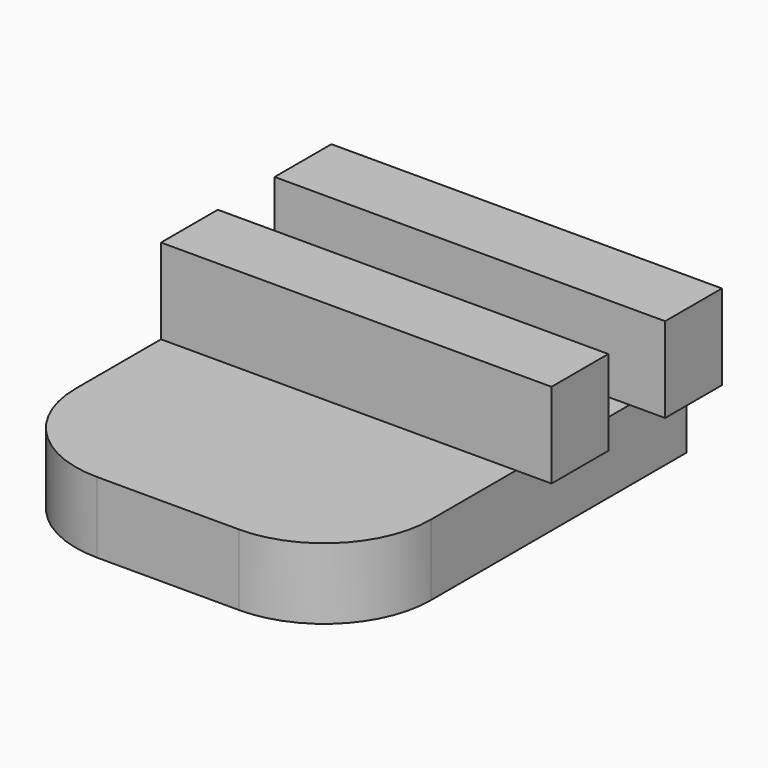
from build123d import *

# Parameters (mm, degrees)
F1_DEPTH = 10
F2_W     = 55
F2_H     = 10
F3_DEPTH = 12
F4_W     = 5
F4_H     = 10
F5_DEPTH = 30.001


with BuildPart() as f1:
    # F0 (on Top) → F1 (new body)
    with BuildSketch(Plane.XY):
        with BuildLine():
            Line((55, 30), (0, 30))
            Line((0, 30), (0, -15))
            ThreePointArc((0, -15), (4.393398, -25.606602), (15, -30))
            Line((15, -30), (35, -30))
            ThreePointArc((35, -30), (45.606602, -25.606602), (50, -15))
            Line((50, -15), (50, 0))
            Line((50, 0), (55, 0))
            Line((55, 0), (55, 30))
        make_face()
    extrude(amount=F1_DEPTH)

    # F2 (on face) → F3 (join)
    with BuildSketch(Plane.XY.offset(10)):
        with Locations((27.5, 25)):
            Rectangle(F2_W, F2_H)
        Polygon((0, 0), (50, 0), (55, 0), (55, 10), (0, 10), align=None)
    extrude(amount=F3_DEPTH)

    # F4 (on face) → F5 (cut, through all)
    with BuildSketch(Plane.XZ):
        with Locations((52.5, 5)):
            Rectangle(F4_W, F4_H)
    extrude(amount=-F5_DEPTH, mode=Mode.SUBTRACT)


solid = f1.part
